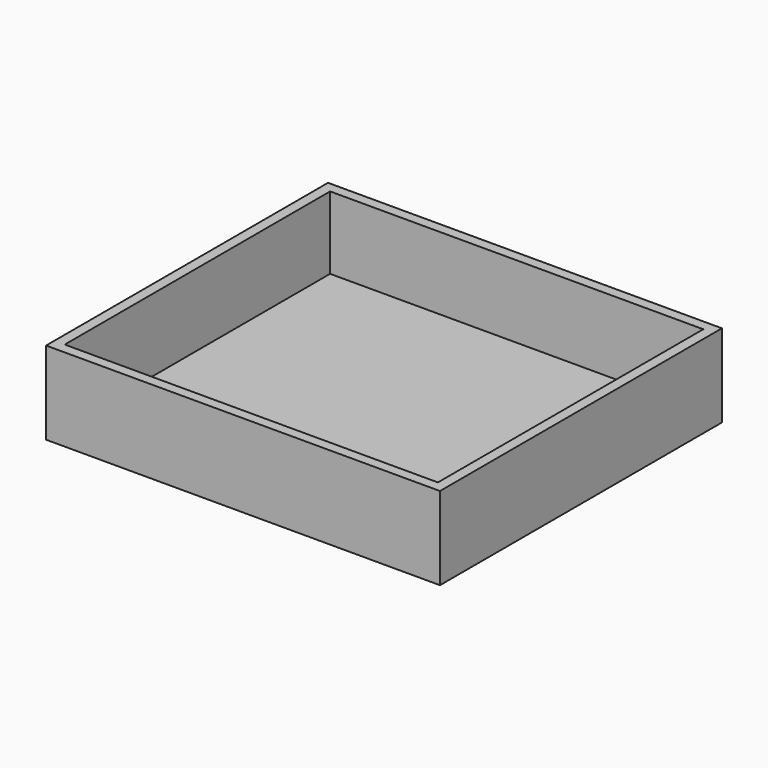
from build123d import *

# Parameters (mm, degrees)
F0_W     = 914.4
F0_H     = 812.8
F1_DEPTH = 25.4
F0_W_2   = 965.200017
F0_H_2   = 863.600017
F2_DEPTH = 203.2


with BuildPart() as f1:
    # F0 (on Top) → F1 (new body)
    with BuildSketch(Plane.XY):
        with Locations((4.550334, 54.313331)):
            Rectangle(F0_W, F0_H)
    extrude(amount=F1_DEPTH)

    # F0 (on Top) → F2 (join)
    with BuildSketch(Plane.XY):
        with Locations((4.550334, 54.313332)):
            Rectangle(F0_W_2, F0_H_2)
        with Locations((4.550334, 54.313331)):
            Rectangle(F0_W, F0_H, mode=Mode.SUBTRACT)
    extrude(amount=F2_DEPTH)


solid = f1.part
